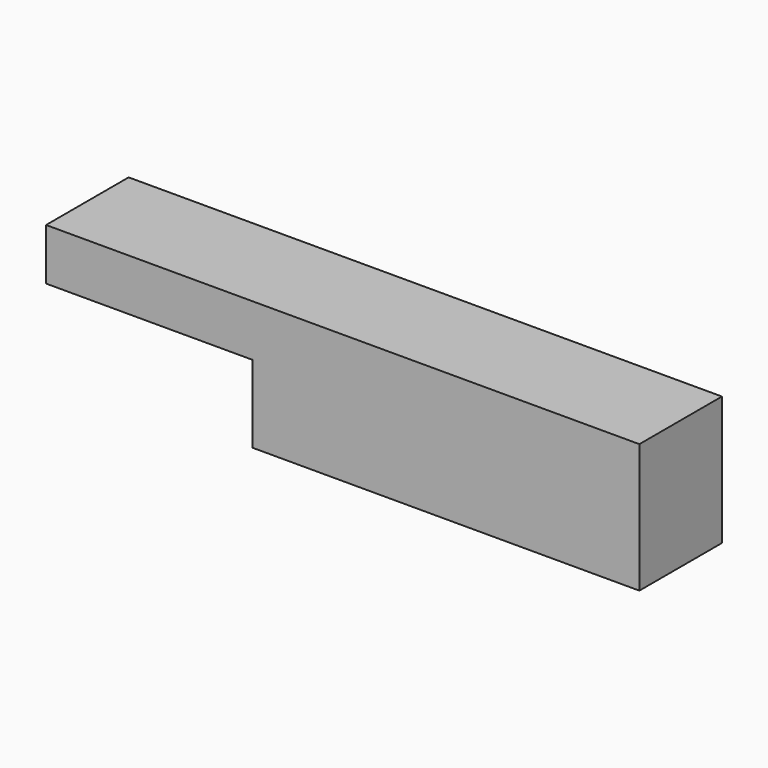
from build123d import *

# Parameters (mm, degrees)
PAD_DEPTH = 20


with BuildPart() as part:
    # Sketch → Pad (new body)
    with BuildSketch(Plane.XZ):
        Polygon((-40, 10), (-40, 0), (0, 0), (0, -15), (75, -15), (75, 10), align=None)
    extrude(amount=PAD_DEPTH)


solid = part.part
